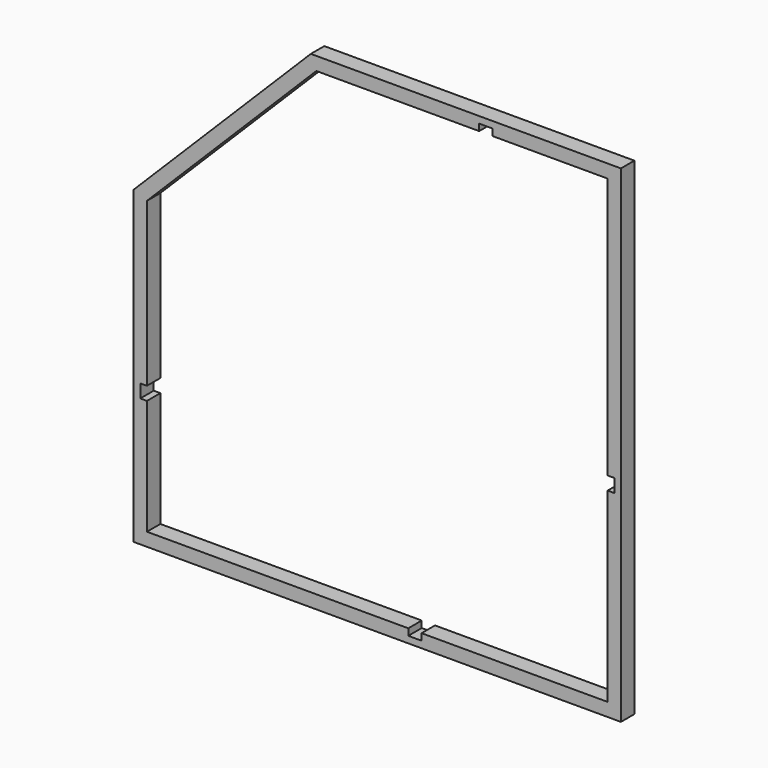
from build123d import *

# Parameters (mm, degrees)
F1_DEPTH = 9.5


with BuildPart() as f1:
    # F0 (on Front) → F1 (new body, symmetric)
    with BuildSketch(Plane.XZ):
        Polygon((-275, 75), (-275, -275), (275, -275), (275, 275), (-75, 275), align=None)
        Polygon((35, -260), (-260, -260), (-260, -130), (-267.5, -130), (-267.5, -115), (-260, -115), (-260, 68.7867965644), (-68.7867965644, 260), (115, 260), (115, 267.5), (130, 267.5), (130, 260), (260, 260), (260, -35), (267.5, -35), (267.5, -50), (260, -50), (260, -260), (50, -260), (50, -267.5), (35, -267.5), align=None, mode=Mode.SUBTRACT)
    extrude(amount=F1_DEPTH, both=True)


solid = f1.part
